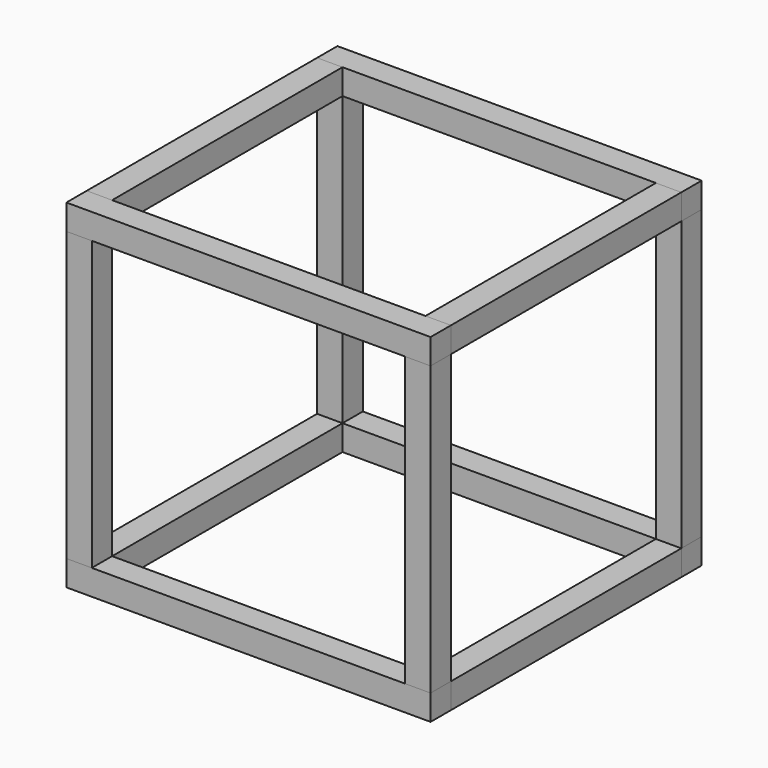
from build123d import *

# Parameters (mm, degrees)
F3_START = -30
F0_W     = 30
F0_H     = 30
F3_DEPTH = 340
F2_W     = 30
F2_H     = 30
F4_DEPTH = 430
F5_START = 30
F1_W     = 30
F1_H     = 30
F5_DEPTH = 340


with BuildPart() as f3:
    # F0 (on Front) → F3 (new body)
    with BuildSketch(Plane.XZ.offset(F3_START)):
        with Locations((15, 385)):
            Rectangle(F0_W, F0_H)
    extrude(amount=-F3_DEPTH)


with BuildPart() as f3b:
    # F0 (on Front) → F3, piece 2 (new body)
    with BuildSketch(Plane.XZ.offset(F3_START)):
        with Locations((15, 15)):
            Rectangle(F0_W, F0_H)
    extrude(amount=-F3_DEPTH)


with BuildPart() as f3c:
    # F0 (on Front) → F3, piece 3 (new body)
    with BuildSketch(Plane.XZ.offset(F3_START)):
        with Locations((415, 15)):
            Rectangle(F0_W, F0_H)
    extrude(amount=-F3_DEPTH)


with BuildPart() as f3d:
    # F0 (on Front) → F3, piece 4 (new body)
    with BuildSketch(Plane.XZ.offset(F3_START)):
        with Locations((415, 385)):
            Rectangle(F0_W, F0_H)
    extrude(amount=-F3_DEPTH)


with BuildPart() as f4:
    # F2 (on Right) → F4 (new body, through all)
    with BuildSketch(Plane.YZ):
        with Locations((385, 385)):
            Rectangle(F2_W, F2_H)
    extrude(amount=F4_DEPTH)


with BuildPart() as f4b:
    # F2 (on Right) → F4, piece 2 (new body, through all)
    with BuildSketch(Plane.YZ):
        with Locations((385, 15)):
            Rectangle(F2_W, F2_H)
    extrude(amount=F4_DEPTH)


with BuildPart() as f4c:
    # F2 (on Right) → F4, piece 3 (new body, through all)
    with BuildSketch(Plane.YZ):
        with Locations((15, 15)):
            Rectangle(F2_W, F2_H)
    extrude(amount=F4_DEPTH)


with BuildPart() as f4d:
    # F2 (on Right) → F4, piece 4 (new body, through all)
    with BuildSketch(Plane.YZ):
        with Locations((15, 385)):
            Rectangle(F2_W, F2_H)
    extrude(amount=F4_DEPTH)


with BuildPart() as f5:
    # F1 (on Top) → F5 (new body)
    with BuildSketch(Plane.XY.offset(F5_START)):
        with Locations((15, 15)):
            Rectangle(F1_W, F1_H)
    extrude(amount=F5_DEPTH)


with BuildPart() as f5b:
    # F1 (on Top) → F5, piece 2 (new body)
    with BuildSketch(Plane.XY.offset(F5_START)):
        with Locations((415, 15)):
            Rectangle(F1_W, F1_H)
    extrude(amount=F5_DEPTH)


with BuildPart() as f5c:
    # F1 (on Top) → F5, piece 3 (new body)
    with BuildSketch(Plane.XY.offset(F5_START)):
        with Locations((415, 385)):
            Rectangle(F1_W, F1_H)
    extrude(amount=F5_DEPTH)


with BuildPart() as f5d:
    # F1 (on Top) → F5, piece 4 (new body)
    with BuildSketch(Plane.XY.offset(F5_START)):
        with Locations((15, 385)):
            Rectangle(F1_W, F1_H)
    extrude(amount=F5_DEPTH)


solid = Compound([f3.part, f3b.part, f3c.part, f3d.part, f4.part, f4b.part, f4c.part, f4d.part, f5.part, f5b.part, f5c.part, f5d.part])
